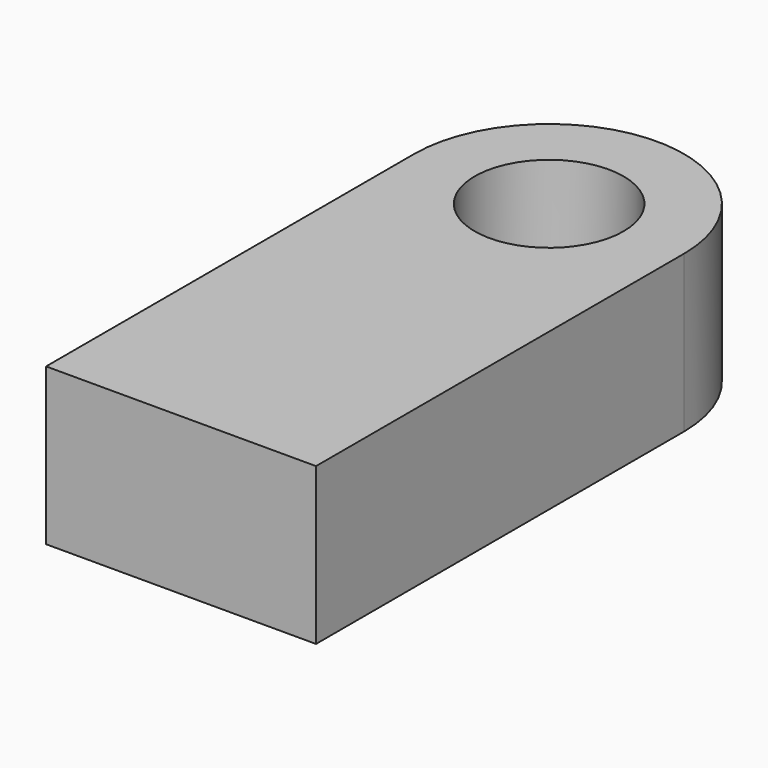
from build123d import *

# Parameters (mm, degrees)
F0_R     = 12.078465
F1_DEPTH = 25.4


with BuildPart() as f1:
    # F0 (on Top) → F1 (new body)
    with BuildSketch(Plane.XY):
        with BuildLine():
            Line((-21.895807, -37.319273), (21.895807, -37.319273))
            Line((21.895807, -37.319273), (21.895807, 37.319273))
            ThreePointArc((21.895807, 37.319273), (0, 59.21508), (-21.895807, 37.319273))
            Line((-21.895807, 37.319273), (-21.895807, -37.319273))
        make_face()
        with Locations((0, 37.319273)):
            Circle(F0_R, mode=Mode.SUBTRACT)
    extrude(amount=F1_DEPTH)


solid = f1.part
